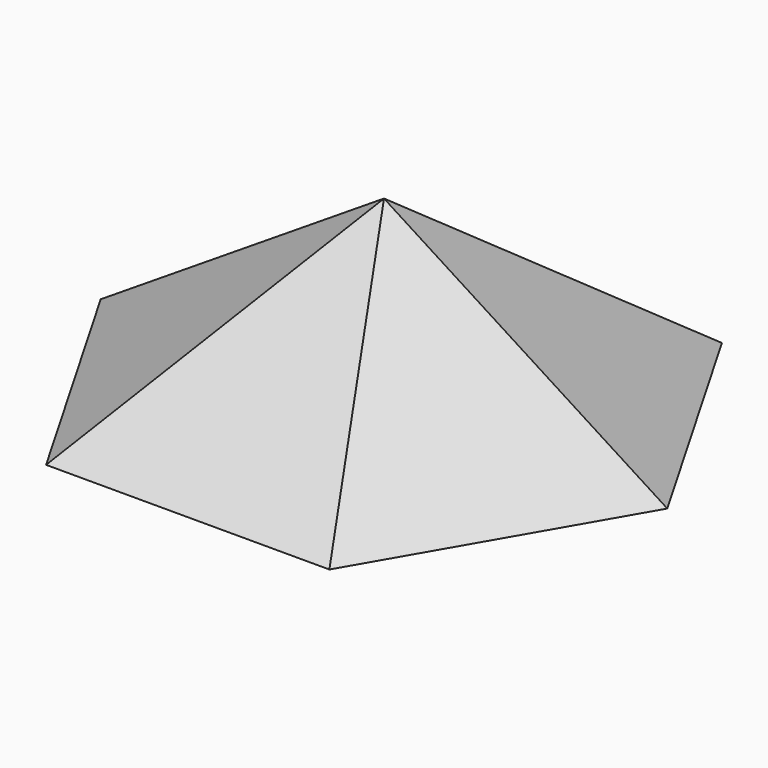
from build123d import *

# Parameters (mm, degrees)
F5_DEPTH = 5


with BuildPart() as f3:
    # F0 (on Top) → F3 section 0
    with BuildSketch(Plane.XY, mode=Mode.PRIVATE) as f3_s0:
        Polygon((11.75, 20.351597), (-11.75, 20.351597), (-23.5, 0), (-11.75, -20.351597), (11.75, -20.351597), (23.5, 0), align=None)
    loft([Vertex(0, 0, 15), f3_s0.sketch])

    # F4 (on face) → F5 (cut)
    with BuildSketch(Plane(origin=(0, 0, 0), x_dir=(1, 0, 0), z_dir=(0, 0, -1))):
        Polygon((-3.526712, -4.854102), (3.526712, -4.854102), (5.706339, 1.854102), (0, 6), (-5.706339, 1.854102), align=None)
    extrude(amount=-F5_DEPTH, mode=Mode.SUBTRACT)


solid = f3.part
